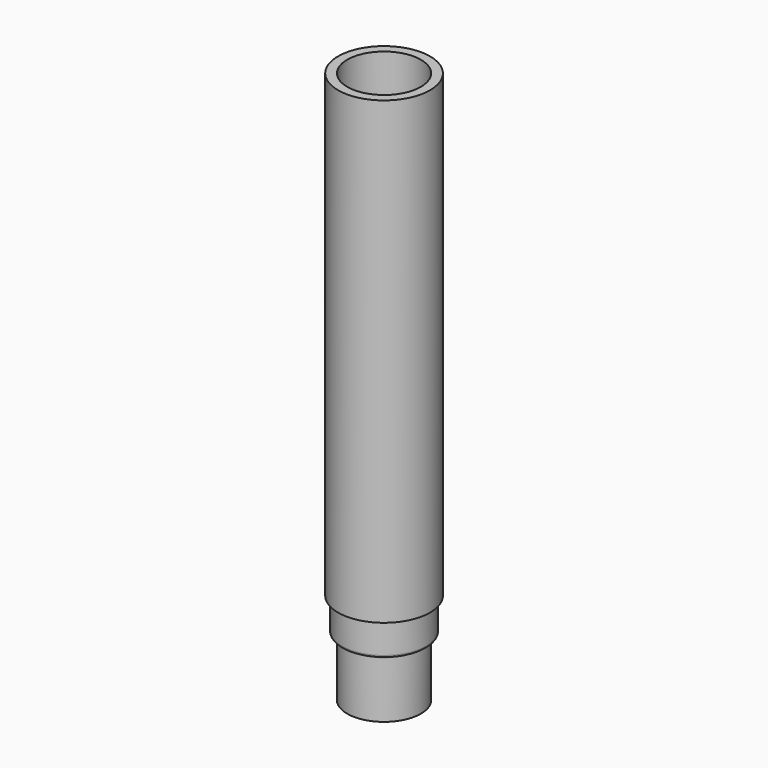
from build123d import *

# Parameters (mm, degrees)
F0_R      = 7.9355102155
F1_DEPTH  = 50.8
F2_DEPTH  = 28.575
F3_R      = 7.2928540477
F5_DEPTH  = 5.715
F4_R      = 6.3630946633
F6_DEPTH  = 15.875
F7_R      = 0.4292471714
F8_R      = 4.7645441954
F9_DEPTH  = 15.875
F10_R     = 6.351340122
F11_DEPTH = 50.8


with BuildPart() as f1:
    # F0 (on Top) → F1 (new body)
    with BuildSketch(Plane.XY):
        Circle(F0_R)
    extrude(amount=F1_DEPTH)

    # F2 (add): a face of the model
    f2_faces = [f1.faces().sort_by_distance(p)[0] for p in [
        (0, 0, 0),
    ]]
    extrude(f2_faces, amount=F2_DEPTH)

    # F3 (on face) → F5 (join)
    with BuildSketch(Plane(origin=(0, 0, -28.575), x_dir=(1, 0, 0), z_dir=(0, 0, -1))):
        Circle(F3_R)
    extrude(amount=F5_DEPTH)

    # F4 (on face) → F6 (join)
    with BuildSketch(Plane(origin=(0, 0, -28.575), x_dir=(1, 0, 0), z_dir=(0, 0, -1))):
        Circle(F4_R)
    extrude(amount=F6_DEPTH)

    # F7
    f7_edges = [f1.edges().sort_by_distance(p)[0] for p in [
        (-6.363095, 0, -34.29),
        (-7.292854, 0, -34.29),
    ]]
    fillet(f7_edges, radius=F7_R)

    # F8 (on face) → F9 (cut)
    with BuildSketch(Plane(origin=(0, 0, -44.45), x_dir=(1, 0, 0), z_dir=(0, 0, -1))):
        Circle(F8_R)
    extrude(amount=-F9_DEPTH, mode=Mode.SUBTRACT)

    # F10 (on face) → F11 (cut)
    with BuildSketch(Plane.XY.offset(50.8)):
        Circle(F10_R)
    extrude(amount=-F11_DEPTH, mode=Mode.SUBTRACT)


solid = f1.part
